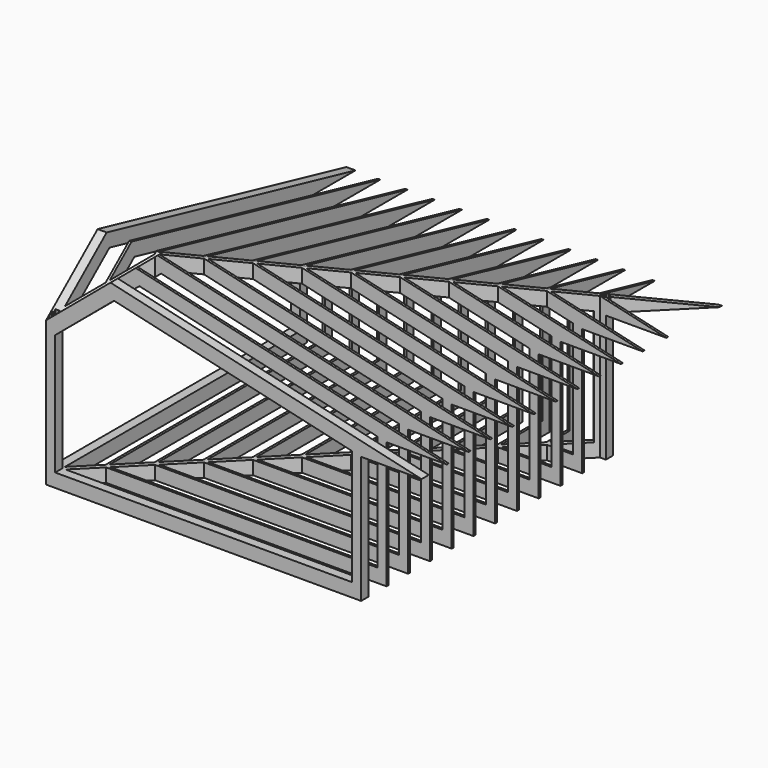
from build123d import *

# Parameters (mm, degrees)
F0_W     = 200
F0_H     = 200
F0_H_2   = 51
F0_W_2   = 45
F0_H_3   = 45
F0_W_3   = 1500
F1_DEPTH = 4500
F3_DEPTH = 8449.001


with BuildPart() as f1:
    # F0 (on Top) → F1 (new body)
    with BuildSketch(Plane.XY):
        Polygon((-6549, -6749), (-6549, -6619.0035713375), (-6561, -6631.0035713375), (-6561, -6692), (-6561, -6737), (-6606, -6737), (-6666.9964286625, -6737), (-6678.9964286625, -6749), align=None)
        Polygon((188, 143), (188, 117.9964286625), (200, 129.9964286625), (200, 200), (188, 188), align=None)
        Polygon((-6749, -6749), (-6678.9964286625, -6749), (-6666.9964286625, -6737), (-6692, -6737), (-6737, -6737), align=None)
        Polygon((0, -6549), (-6478.9964286625, -6549), (-6549, -6619.0035713375), (-6549, -6749), (0, -6749), align=None)
        Polygon((-6478.9964286625, -6549), (-6549, -6549), (-6549, -6619.0035713375), align=None)
        Polygon((0, -70.0035713375), (0, 0), (-6549, -6549), (-6478.9964286625, -6549), (-5980.9964286625, -6051), (-5929.9964286625, -6000), (-5380.9964286625, -5451), (-5329.9964286625, -5400), (-4780.9964286625, -4851), (-4729.9964286625, -4800), (-4180.9964286625, -4251), (-4129.9964286625, -4200), (-3580.9964286625, -3651), (-3529.9964286625, -3600), (-2980.9964286625, -3051), (-2929.9964286625, -3000), (-2380.9964286625, -2451), (-2329.9964286625, -2400), (-1780.9964286625, -1851), (-1729.9964286625, -1800), (-1180.9964286625, -1251), (-1129.9964286625, -1200), (-580.9964286625, -651), (-529.9964286625, -600), align=None)
        Polygon((-5929.9964286625, -6000), (-5980.9964286625, -6051), (0, -6051), (0, -6000), align=None)
        Polygon((-5329.9964286625, -5400), (-5380.9964286625, -5451), (0, -5451), (0, -5400), align=None)
        Polygon((-4729.9964286625, -4800), (-4780.9964286625, -4851), (0, -4851), (0, -4800), align=None)
        Polygon((-4129.9964286625, -4200), (-4180.9964286625, -4251), (0, -4251), (0, -4200), align=None)
        Polygon((-3529.9964286625, -3600), (-3580.9964286625, -3651), (0, -3651), (0, -3600), align=None)
        Polygon((0, -3051), (0, -3000), (-2929.9964286625, -3000), (-2980.9964286625, -3051), align=None)
        Polygon((0, -2451), (0, -2400), (-2329.9964286625, -2400), (-2380.9964286625, -2451), align=None)
        Polygon((0, -1851), (0, -1800), (-1729.9964286625, -1800), (-1780.9964286625, -1851), align=None)
        Polygon((0, -1251), (0, -1200), (-1129.9964286625, -1200), (-1180.9964286625, -1251), align=None)
        Polygon((0, -651), (0, -600), (-529.9964286625, -600), (-580.9964286625, -651), align=None)
        Polygon((70.0035713375, 0), (0, 0), (0, -70.0035713375), align=None)
        with Locations((100, -6649)):
            Rectangle(F0_W, F0_H)
        with Locations((100, -6025.5)):
            Rectangle(F0_W, F0_H_2)
        with Locations((100, -5425.5)):
            Rectangle(F0_W, F0_H_2)
        with Locations((100, -4825.5)):
            Rectangle(F0_W, F0_H_2)
        with Locations((100, -4225.5)):
            Rectangle(F0_W, F0_H_2)
        with Locations((100, -3625.5)):
            Rectangle(F0_W, F0_H_2)
        with Locations((100, -3025.5)):
            Rectangle(F0_W, F0_H_2)
        with Locations((100, -2425.5)):
            Rectangle(F0_W, F0_H_2)
        with Locations((100, -1825.5)):
            Rectangle(F0_W, F0_H_2)
        with Locations((100, -1225.5)):
            Rectangle(F0_W, F0_H_2)
        with Locations((100, -625.5)):
            Rectangle(F0_W, F0_H_2)
        Polygon((12, 12), (0, 0), (70.0035713375, 0), (82.0035713375, 12), (57, 12), align=None)
        Polygon((57, 57), (12, 12), (57, 12), align=None)
        with Locations((165.5, 34.5)):
            Rectangle(F0_W_2, F0_H_3)
        Polygon((188, 188), (143, 143), (188, 143), align=None)
        with Locations((950, -6649)):
            Rectangle(F0_W_3, F0_H)
        with Locations((950, -6025.5)):
            Rectangle(F0_W_3, F0_H_2)
        with Locations((950, -5425.5)):
            Rectangle(F0_W_3, F0_H_2)
        with Locations((950, -4825.5)):
            Rectangle(F0_W_3, F0_H_2)
        with Locations((950, -4225.5)):
            Rectangle(F0_W_3, F0_H_2)
        with Locations((950, -3625.5)):
            Rectangle(F0_W_3, F0_H_2)
        with Locations((950, -3025.5)):
            Rectangle(F0_W_3, F0_H_2)
        with Locations((950, -2425.5)):
            Rectangle(F0_W_3, F0_H_2)
        with Locations((950, -1825.5)):
            Rectangle(F0_W_3, F0_H_2)
        with Locations((950, -1225.5)):
            Rectangle(F0_W_3, F0_H_2)
        with Locations((950, -625.5)):
            Rectangle(F0_W_3, F0_H_2)
        with Locations((950, 25.5)):
            Rectangle(F0_W_3, F0_H_2)
        Polygon((-6549, -6749), (-6549, -6619.0035713375), (-6561, -6631.0035713375), (-6561, -6692), (-6561, -6737), (-6606, -6737), (-6666.9964286625, -6737), (-6678.9964286625, -6749), align=None)
        Polygon((82.0035713375, 12), (70.0035713375, 0), (200, 0), (200, 51), (200, 129.9964286625), (188, 117.9964286625), (188, 57), (188, 12), (143, 12), align=None)
        Polygon((188, 143), (188, 117.9964286625), (200, 129.9964286625), (200, 200), (188, 188), align=None)
        Polygon((-6692, -6737), (-6692, -6692), (-6737, -6737), align=None)
        with Locations((-6583.5, -6714.5)):
            Rectangle(F0_W_2, F0_H_3)
        Polygon((-6561, -6606), (-6561, -6561), (-6606, -6606), align=None)
        Polygon((-6549, -6619.0035713375), (-6549, -6549), (-6561, -6561), (-6561, -6606), (-6561, -6631.0035713375), align=None)
        Polygon((1700, 1700), (200, 200), (270.0035713375, 200), (1700, 1629.9964286625), align=None)
        Polygon((200, 200), (200, 129.9964286625), (270.0035713375, 200), align=None)
    extrude(amount=F1_DEPTH)

    # F2 (on face) → F3 (cut, through all)
    with BuildSketch(Plane.XZ.offset(6749)):
        Polygon((-5249.6062549819, 4058.1407384342), (-6549, 2967.8199262355), (-6549, 300), (0, 300), (0, 2846.1736382251), align=None)
        Polygon((200, 2800), (200, 0), (1700, 0), (1700, 4500), (-6749, 4500), (-6749, 3191.6221867997), (-5327.8618368007, 4384.0986953922), (1533.6234447757, 2800), align=None)
    extrude(amount=-F3_DEPTH, mode=Mode.SUBTRACT)

    # F4: F1 across face


with BuildPart() as f1_1:
    add(f1.part)
    add(f1.part.mirror(Plane(origin=(-3345.0576706947, -3345.0576706947, 1928.9338663313), x_dir=(-0.7071067812, -0.7071067812, 0), z_dir=(-0.7071067812, 0.7071067812, 0))))


solid = f1_1.part
